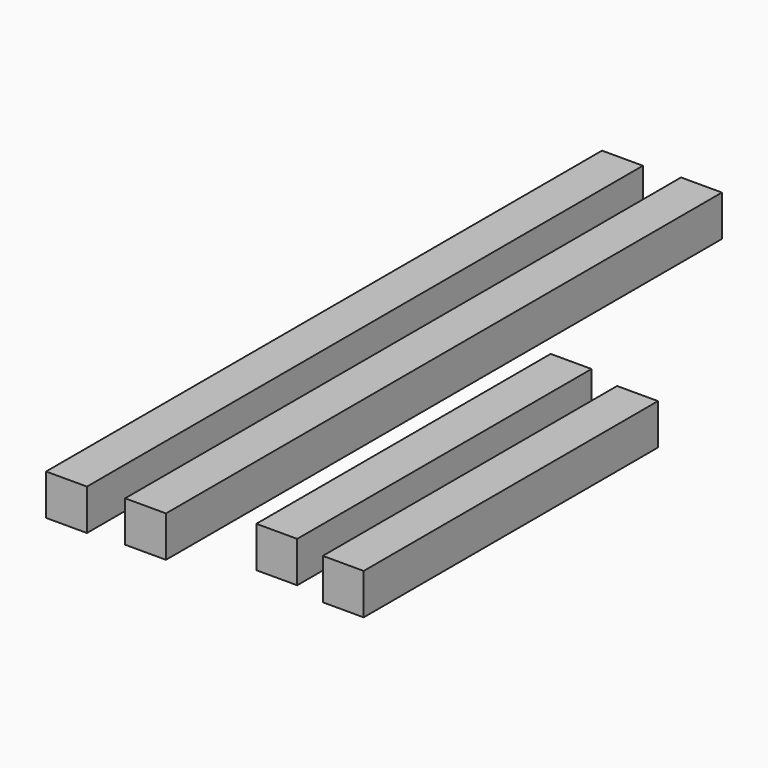
from build123d import *

# Parameters (mm, degrees)
F0_W     = 6.35
F0_H     = 107.95
F0_H_2   = 57.15
F1_DEPTH = 6.35


with BuildPart() as f1:
    # F0 (on Top) → F1 (new body)
    with BuildSketch(Plane.XY):
        with Locations((-34.925004, 50.311538)):
            Rectangle(F0_W, F0_H)
        with Locations((-23.039106, 50.8)):
            Rectangle(F0_W, F0_H)
        with Locations((-6.431413, 30.121795)):
            Rectangle(F0_W, F0_H_2)
        with Locations((5.128846, 28.575)):
            Rectangle(F0_W, F0_H_2)
    extrude(amount=F1_DEPTH)


solid = f1.part
